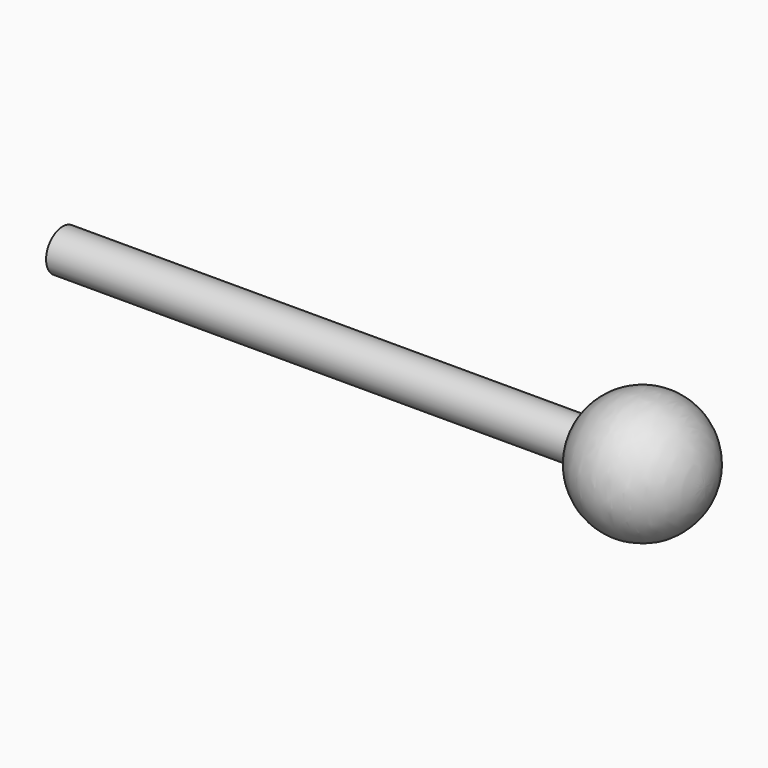
from build123d import *


with BuildPart() as f1:
    # F0 (on Front) → F1 (revolve)
    with BuildSketch(Plane.XZ):
        with BuildLine():
            ThreePointArc((159.827813, 6.35), (159.012673, 3.221393), (158.738325, 0))
            Line((158.738325, 0), (196.838325, 0))
            ThreePointArc((196.838325, 0), (181.009718, 18.775653), (159.827813, 6.35))
        make_face()
        with BuildLine():
            Line((0, 6.35), (0, 0))
            Line((0, 0), (158.738325, 0))
            ThreePointArc((158.738325, 0), (159.012673, 3.221393), (159.827813, 6.35))
            Line((159.827813, 6.35), (0, 6.35))
        make_face()
    revolve(axis=Axis((98.419163, 0, 0), (1, 0, 0)))


solid = f1.part
